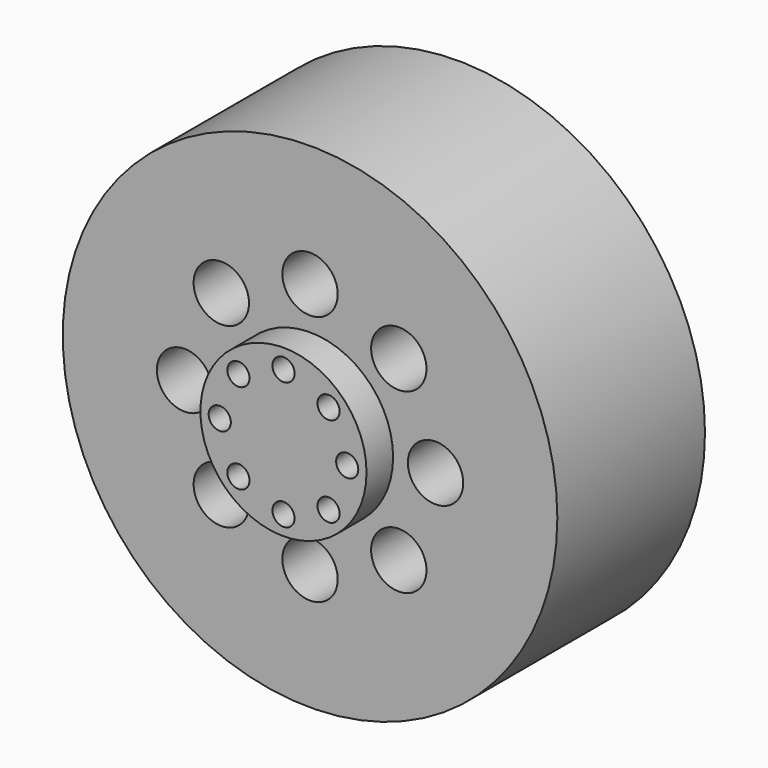
from build123d import *

# Parameters (mm, degrees)
F0_R     = 17.018
F0_R_2   = 1.905
F1_DEPTH = 12.7
F2_R     = 5.715
F2_R_2   = 0.762
F3_DEPTH = 2.286


with BuildPart() as f1:
    # F0 (on Front) → F1 (new body)
    with BuildSketch(Plane.XZ):
        Circle(F0_R)
        with Locations((-6.1065741623, -6.1065741623)):
            Circle(F0_R_2, mode=Mode.SUBTRACT)
        with BuildLine():
            ThreePointArc((0, -6.731), (1.3470384182, -7.2889615818), (1.905, -8.636))
            ThreePointArc((1.905, -8.636), (-1.3470384182, -9.9830384182), (0, -6.731))
        make_face(mode=Mode.SUBTRACT)
        with Locations((6.1065741623, -6.1065741623)):
            Circle(F0_R_2, mode=Mode.SUBTRACT)
        with Locations((-8.636, 0)):
            Circle(F0_R_2, mode=Mode.SUBTRACT)
        with Locations((-6.1065741623, 6.1065741623)):
            Circle(F0_R_2, mode=Mode.SUBTRACT)
        with Locations((6.1065741623, 6.1065741623)):
            Circle(F0_R_2, mode=Mode.SUBTRACT)
        with Locations((8.636, 0)):
            Circle(F0_R_2, mode=Mode.SUBTRACT)
        with Locations((0, 8.636)):
            Circle(F0_R_2, mode=Mode.SUBTRACT)
    extrude(amount=F1_DEPTH)

    # F2 (on face) → F3 (join)
    with BuildSketch(Plane.XZ.offset(12.7)):
        Circle(F2_R)
        with Locations((-3.1005520085, -3.1005520085)):
            Circle(F2_R_2, mode=Mode.SUBTRACT)
        with Locations((0, -4.3848427013)):
            Circle(F2_R_2, mode=Mode.SUBTRACT)
        with Locations((3.1005520085, -3.1005520085)):
            Circle(F2_R_2, mode=Mode.SUBTRACT)
        with Locations((-4.3848427013, 0)):
            Circle(F2_R_2, mode=Mode.SUBTRACT)
        with Locations((-3.1005520085, 3.1005520085)):
            Circle(F2_R_2, mode=Mode.SUBTRACT)
        with Locations((4.3848427013, 0)):
            Circle(F2_R_2, mode=Mode.SUBTRACT)
        with Locations((0, 4.3848427013)):
            Circle(F2_R_2, mode=Mode.SUBTRACT)
        with Locations((3.1005520085, 3.1005520085)):
            Circle(F2_R_2, mode=Mode.SUBTRACT)
    extrude(amount=F3_DEPTH)


solid = f1.part
